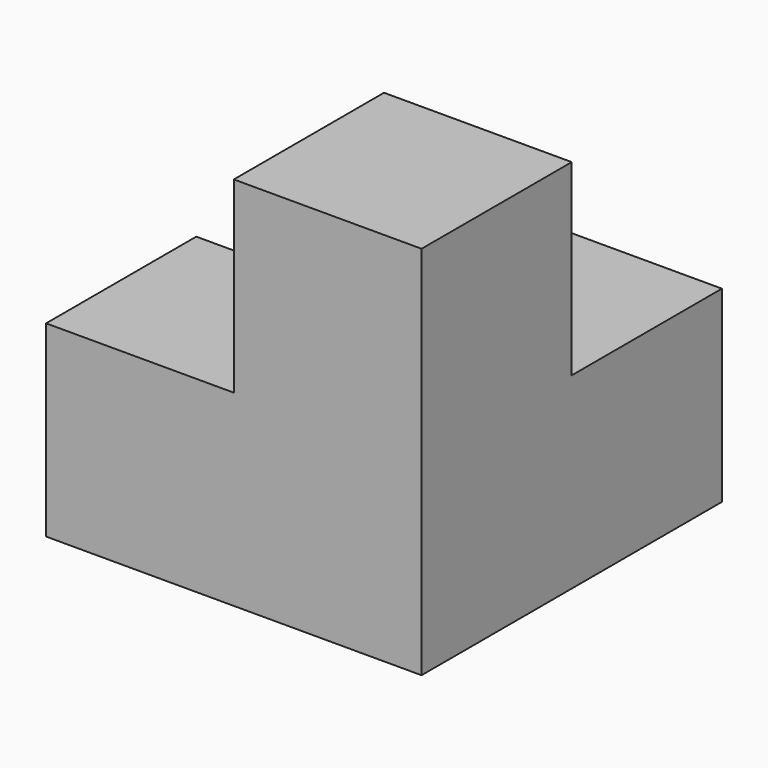
from build123d import *

# Parameters (mm, degrees)
F0_W     = 25.4
F0_H     = 25.4
F1_DEPTH = 25.4
F2_W     = 25.4
F2_H     = 25.4
F3_DEPTH = 25.4
F4_W     = 25.4
F4_H     = 25.4
F5_DEPTH = 25.4
F6_W     = 25.4
F6_H     = 25.4
F7_DEPTH = 25.4


with BuildPart() as f1:
    # F0 (on Front) → F1 (new body)
    with BuildSketch(Plane.XZ):
        with Locations((-12.7, 12.7)):
            Rectangle(F0_W, F0_H)
    extrude(amount=F1_DEPTH)

    # F2 (on face) → F3 (join)
    with BuildSketch(Plane.YZ):
        with Locations((-12.7, 12.7)):
            Rectangle(F2_W, F2_H)
    extrude(amount=F3_DEPTH)

    # F4 (on face) → F5 (join)
    with BuildSketch(Plane(origin=(0, 0, 0), x_dir=(-1, 0, 0), z_dir=(0, 1, 0))):
        with Locations((-12.7, 12.7)):
            Rectangle(F4_W, F4_H)
    extrude(amount=F5_DEPTH)

    # F6 (on face) → F7 (join)
    with BuildSketch(Plane.XY.offset(25.4)):
        with Locations((12.7, -12.7)):
            Rectangle(F6_W, F6_H)
    extrude(amount=F7_DEPTH)


solid = f1.part
